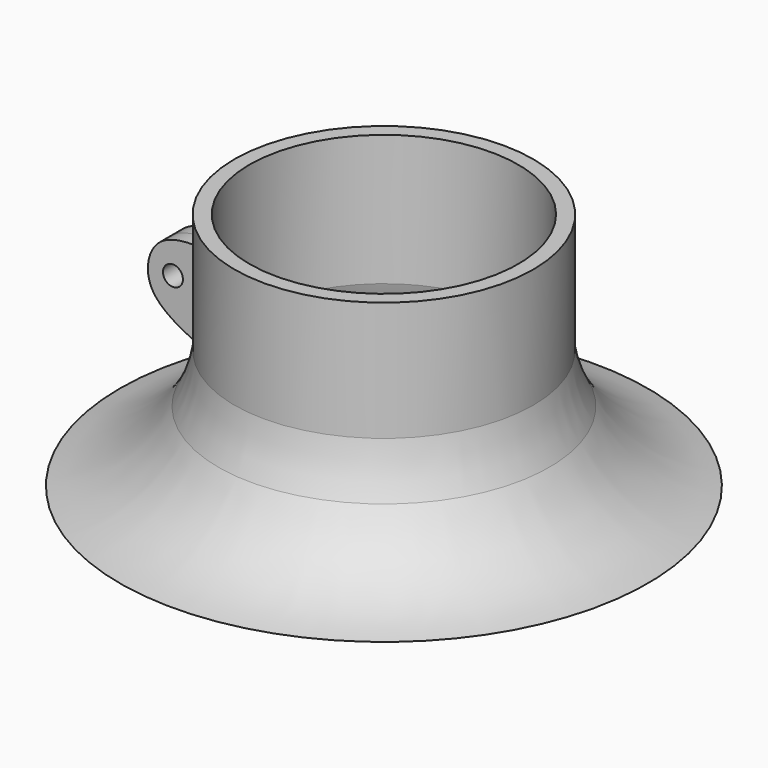
from build123d import *

# Parameters (mm, degrees)
F0_R     = 3.175
F2_DEPTH = 4.7625


with BuildPart() as f1:
    # F0 (on Front) → F1 (revolve)
    with BuildSketch(Plane.XZ):
        with BuildLine():
            ThreePointArc((-76.6519159079, 0), (-57.8443054398, 13.6099762046), (-47.625, 34.4552025199))
            Line((-47.625, 34.4552025199), (-47.625, 76.2))
            Line((-47.625, 76.2), (-52.3875, 76.2))
            Line((-52.3875, 76.2), (-52.3875, 50.8))
            Line((-52.3875, 50.8), (-52.3875, 38.1))
            ThreePointArc((-52.3875, 38.1), (-54.2234370352, 29.9996817772), (-57.5327032702, 22.3816389123))
            ThreePointArc((-57.5327032702, 22.3816389123), (-70.6681150923, 7.6195308616), (-88.9, 0))
            Line((-88.9, 0), (-76.6519159079, 0))
        make_face()
    revolve(axis=Axis((-4.7625, 0, 35.1770613343), (0, 0, -1)))

    # F0 (on Front) → F2 (join, symmetric)
    with BuildSketch(Plane.XZ):
        with BuildLine():
            Line((-52.3875, 38.1), (-52.3875, 50.8))
            add(Edge.make_bspline(
                [(-57.5327032702, 22.3816389123), (-65.0873911071, 25.8888650273), (-78.6040150118, 32.1613991723), (-74.6881941056, 52.2718953606), (-60.3173873221, 51.3237170816), (-52.3875, 50.8)],
                knots=[0, 0, 0, 0, 0.3632347305, 0.6485002918, 1, 1, 1, 1], degree=3))
            ThreePointArc((-57.5327032702, 22.3816389123), (-54.2234370352, 29.9996817772), (-52.3875, 38.1))
        make_face()
        with Locations((-68.1837052107, 40.2953475714)):
            Circle(F0_R, mode=Mode.SUBTRACT)
    extrude(amount=F2_DEPTH, both=True)


solid = f1.part
